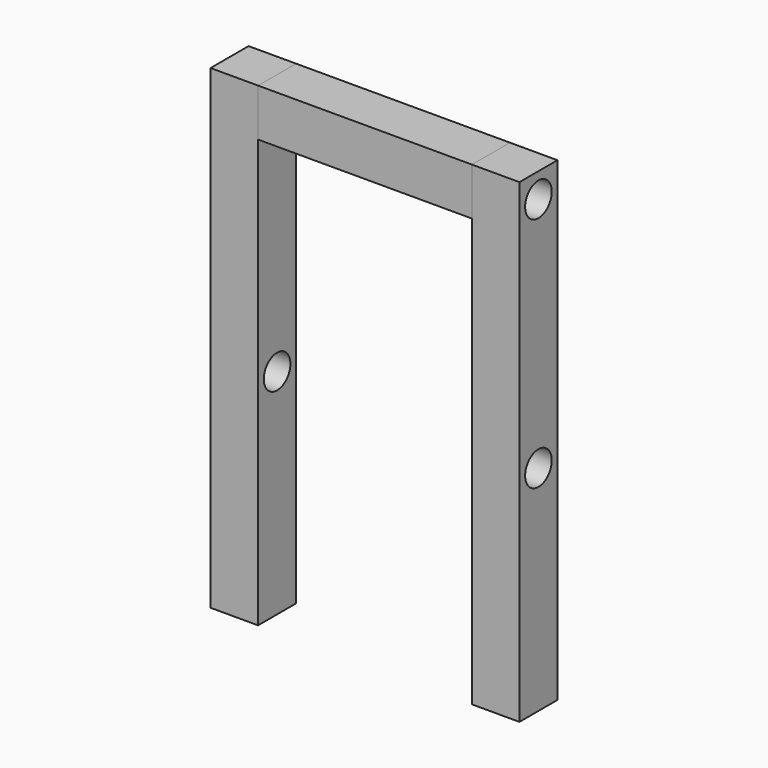
from build123d import *

# Parameters (mm, degrees)
F0_W      = 100
F0_H      = 100
F1_DEPTH  = 1000
F2_W      = 100
F2_H      = 100
F3_DEPTH  = 450
F4_R      = 35
F5_DEPTH  = 100
F6_R      = 35
F7_DEPTH  = 100
F8_R      = 35
F9_DEPTH  = 60
F10_R     = 35
F11_DEPTH = 60


with BuildPart() as f1:
    # F0 (on Top) → F1 (new body)
    with BuildSketch(Plane.XY):
        with Locations((-275, 0)):
            Rectangle(F0_W, F0_H)
        with Locations((275, 0)):
            Rectangle(F0_W, F0_H)
    extrude(amount=F1_DEPTH)

    # F4 (on face) → F5 (cut, through all)
    with BuildSketch(Plane.YZ.offset(325)):
        with Locations((0, 450)):
            Circle(F4_R)
    extrude(amount=-F5_DEPTH, mode=Mode.SUBTRACT)

    # F6 (on face) → F7 (cut, through all)
    with BuildSketch(Plane(origin=(-325, 0, 0), x_dir=(0, -1, 0), z_dir=(-1, 0, 0))):
        with Locations((0, 450)):
            Circle(F6_R)
    extrude(amount=-F7_DEPTH, mode=Mode.SUBTRACT)

    # F8 (on face) → F9 (cut)
    with BuildSketch(Plane(origin=(-325, 0, 0), x_dir=(0, -1, 0), z_dir=(-1, 0, 0))):
        with Locations((0, 954.921283)):
            Circle(F8_R)
    extrude(amount=-F9_DEPTH, mode=Mode.SUBTRACT)

    # F10 (on face) → F11 (cut)
    with BuildSketch(Plane.YZ.offset(325)):
        with Locations((0, 947.908829)):
            Circle(F10_R)
    extrude(amount=-F11_DEPTH, mode=Mode.SUBTRACT)


with BuildPart() as f3:
    # F2 (on face) → F3 (new body, through all)
    with BuildSketch(Plane.YZ.offset(-225)):
        with Locations((0, 950)):
            Rectangle(F2_W, F2_H)
    extrude(amount=F3_DEPTH)


solid = Compound([f1.part, f3.part])
